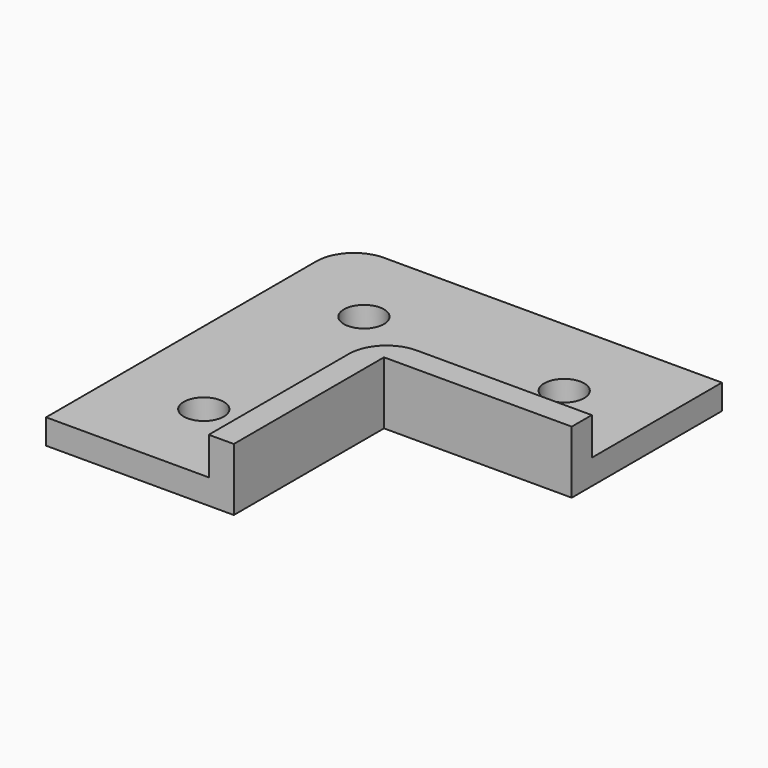
from build123d import *

# Parameters (mm, degrees)
F1_DEPTH = 2
F3_DEPTH = 3
F5_D     = 3.2
F6_R     = 3


with BuildPart() as f1:
    # F0 (on Top) → F1 (new body)
    with BuildSketch(Plane.XY):
        Polygon((-15, -15), (0, -15), (0, 0), (15, 0), (15, 15), (-15, 15), align=None)
    extrude(amount=F1_DEPTH)

    # F2 (on face) → F3 (join)
    with BuildSketch(Plane.XY.offset(2)):
        Polygon((15, 0), (15, 2), (-2, 2), (-2, -15), (0, -15), (0, 0), align=None)
    extrude(amount=F3_DEPTH)

    # F5 (through all)
    with Locations(Plane.XY.offset(2)):
        with Locations((-8, 8), (8, 8), (-8, -8)):
            Hole(F5_D / 2)

    # F6
    f6_edges = [f1.edges().sort_by_distance(p)[0] for p in [
        (-15, 15, 1),
        (-2, 2, 3.5),
    ]]
    fillet(f6_edges, radius=F6_R)


solid = f1.part
